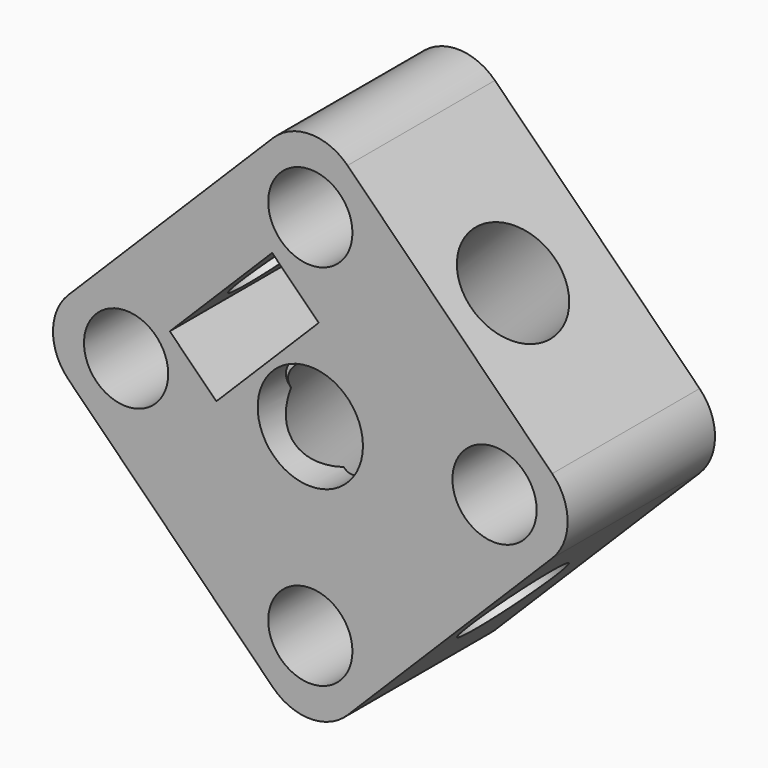
from build123d import *

# Parameters (mm, degrees)
F0_R     = 1.6
F0_R_2   = 2
F1_DEPTH = 7
F2_R     = 2
F3_DEPTH = 25
F4_COUNT = 4
F7_DEPTH = 6
F8_SIZE  = 0.5


with BuildPart() as f1:
    # F0 (on Front) → F1 (new body)
    with BuildSketch(Plane.XZ):
        with BuildLine():
            Line((-9.192388, -1.414214), (-1.414214, -9.192388))
            ThreePointArc((-1.414214, -9.192388), (0, -9.778175), (1.414214, -9.192388))
            Line((1.414214, -9.192388), (9.192388, -1.414214))
            ThreePointArc((9.192388, -1.414214), (9.778175, 0), (9.192388, 1.414214))
            Line((9.192388, 1.414214), (1.414214, 9.192388))
            ThreePointArc((1.414214, 9.192388), (0, 9.778175), (-1.414214, 9.192388))
            Line((-1.414214, 9.192388), (-9.192388, 1.414214))
            ThreePointArc((-9.192388, 1.414214), (-9.778175, 0), (-9.192388, -1.414214))
        make_face()
        with Locations((0, -7)):
            Circle(F0_R, mode=Mode.SUBTRACT)
        with Locations((-7, 0)):
            Circle(F0_R, mode=Mode.SUBTRACT)
        Circle(F0_R_2, mode=Mode.SUBTRACT)
        with Locations((7, 0)):
            Circle(F0_R, mode=Mode.SUBTRACT)
        with Locations((0, 7)):
            Circle(F0_R, mode=Mode.SUBTRACT)
    extrude(amount=F1_DEPTH)


with BuildPart() as f3:
    # F2 (on face) → F3 (new body)
    with BuildSketch(Plane(origin=(-5.303301, 0, -5.303301), x_dir=(0.707107, 0, -0.707107), z_dir=(-0.707107, 0, -0.707107))):
        with Locations((0, 4)):
            Circle(F2_R)
    extrude(amount=-F3_DEPTH)


with BuildPart() as f4_1:
    # F4: instance of F3
    add(f3.part.rotate(Axis((0, 0, 0), (0, 1, 0)), 1 * 360 / F4_COUNT))


with BuildPart() as f4_2:
    # F4: instance of F3
    add(f3.part.rotate(Axis((0, 0, 0), (0, 1, 0)), 2 * 360 / F4_COUNT))


with BuildPart() as f4_3:
    # F4: instance of F3
    add(f3.part.rotate(Axis((0, 0, 0), (0, 1, 0)), 3 * 360 / F4_COUNT))


with BuildPart() as f1_1:
    add(f1.part)

    # F5: cut F3, F4_1, F4_2, F4_3
    add(f3.part, mode=Mode.SUBTRACT)
    add(f4_1.part, mode=Mode.SUBTRACT)
    add(f4_2.part, mode=Mode.SUBTRACT)
    add(f4_3.part, mode=Mode.SUBTRACT)

    # F6 (on face) → F7 (cut)
    with BuildSketch(Plane.XZ.offset(7)):
        Polygon((-1.449569, 5.338656), (-3.394113, 3.394113), (-5.338656, 1.449569), (-3.570889, -0.318198), (0.318198, 3.570889), align=None)
    extrude(amount=-F7_DEPTH, mode=Mode.SUBTRACT)

    # F8
    f8_edges = [f1_1.edges().sort_by_distance(p)[0] for p in [
        (5.4, 0, 0),
        (-1.6, 0, 7),
        (-8.6, 0, 0),
        (-1.6, 0, -7),
    ]]
    chamfer(f8_edges, length=F8_SIZE)


solid = f1_1.part
